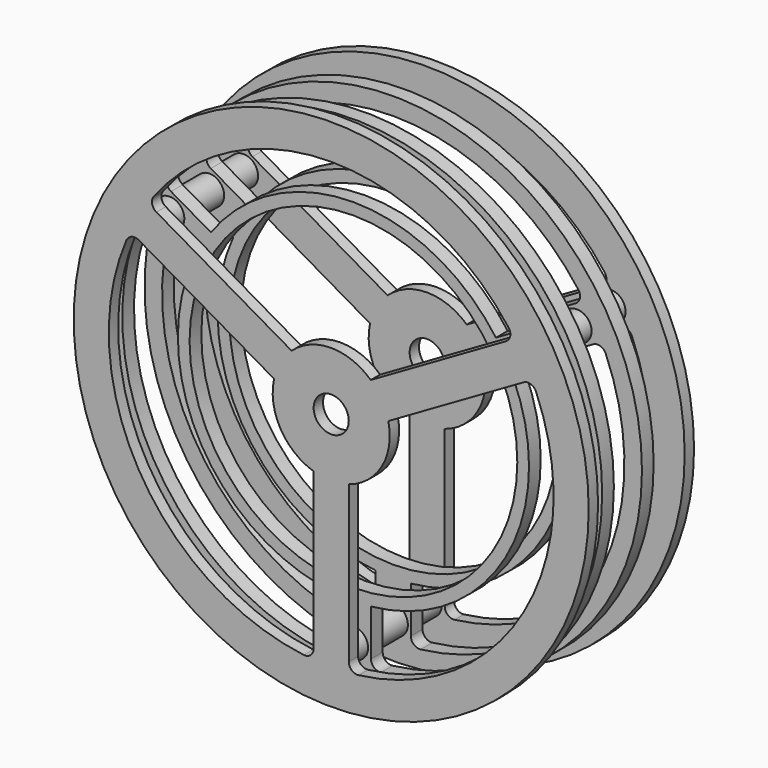
from build123d import *

# Parameters (mm, degrees)
SKETCH_R            = 88
SKETCH_R_2          = 6
PAD_DEPTH           = 4
SKETCH002_R         = 5
PAD001_DEPTH        = 18.5
POLARPATTERN_COUNT  = 3
SKETCH001_R         = 85
SKETCH001_R_2       = 56
PAD002_DEPTH        = 5
LINEARPATTERN_COUNT = 2
LINEARPATTERN_PITCH = 17


with BuildPart() as part:
    # Sketch → Pad (new body)
    with BuildSketch(Plane.XZ.offset(18.5)):
        Circle(SKETCH_R)
        Circle(SKETCH_R_2, mode=Mode.SUBTRACT)
        with BuildLine():
            ThreePointArc((9.369863, -75.420194), (65.817931, -38), (70.000735, 29.595558))
            ThreePointArc((70.000735, 29.595558), (68.191495, 31.271602), (65.737549, 31.025388))
            Line((19.522712, 4.34324), (65.737549, 31.025388))
            ThreePointArc((6, -19.078784), (17.320508, -10), (19.522712, 4.34324))
            Line((6, -19.078784), (6, -72.443081))
            ThreePointArc((6, -72.443081), (7.013746, -74.691368), (9.369863, -75.420194))
        make_face(mode=Mode.SUBTRACT)
        with BuildLine():
            Line((-6, -19.078784), (-6, -72.443081))
            ThreePointArc((-9.369863, -75.420194), (-7.013746, -74.691368), (-6, -72.443081))
            ThreePointArc((-70.000735, 29.595558), (-65.817931, -38), (-9.369863, -75.420194))
            ThreePointArc((-65.737549, 31.025388), (-68.191495, 31.271602), (-70.000735, 29.595558))
            Line((-65.737549, 31.025388), (-19.522712, 4.34324))
            ThreePointArc((-19.522712, 4.34324), (-17.320508, -10), (-6, -19.078784))
        make_face(mode=Mode.SUBTRACT)
        with BuildLine():
            Line((13.522712, 14.735544), (59.737549, 41.417693))
            ThreePointArc((59.737549, 41.417693), (61.177749, 43.419766), (60.630872, 45.824636))
            ThreePointArc((60.630872, 45.824636), (0, 76), (-60.630872, 45.824636))
            ThreePointArc((-60.630872, 45.824636), (-61.177749, 43.419766), (-59.737549, 41.417693))
            Line((-13.522712, 14.735544), (-59.737549, 41.417693))
            ThreePointArc((13.522712, 14.735544), (0, 20), (-13.522712, 14.735544))
        make_face(mode=Mode.SUBTRACT)
    pad = extrude(amount=PAD_DEPTH)

    # Sketch002 → Pad001 (join, symmetric)
    with BuildSketch(Plane.XZ):
        with Locations((0, -72.5)):
            Circle(SKETCH002_R)
    pad001 = extrude(amount=PAD001_DEPTH, both=True)

    # PolarPattern: Pad001 ×3 about axis
    polarpattern_axis = Axis((0, 0, 0), (0, -1, 0))
    for i in range(1, POLARPATTERN_COUNT):
        add(pad001.rotate(polarpattern_axis, i * 360 / POLARPATTERN_COUNT))

    # Sketch001 → Pad002 (join)
    with BuildSketch(Plane.XZ.offset(8)):
        Circle(SKETCH001_R)
        Circle(SKETCH001_R_2, mode=Mode.SUBTRACT)
        with BuildLine():
            ThreePointArc((9.355263, -78.444114), (68.416007, -39.5), (72.612227, 31.120162))
            ThreePointArc((72.612227, 31.120162), (70.801772, 32.785003), (68.354801, 32.536459))
            Line((54.701064, 24.653471), (68.354801, 32.536459))
            ThreePointArc((6, -59.699246), (51.961524, -30), (54.701064, 24.653471))
            Line((6, -59.699246), (6, -75.465224))
            ThreePointArc((6, -75.465224), (7.008241, -77.708635), (9.355263, -78.444114))
        make_face(mode=Mode.SUBTRACT)
        with BuildLine():
            Line((-6, -59.699246), (-6, -75.465224))
            ThreePointArc((-9.355263, -78.444114), (-7.008241, -77.708635), (-6, -75.465224))
            ThreePointArc((-72.612227, 31.120162), (-68.416007, -39.5), (-9.355263, -78.444114))
            ThreePointArc((-68.354801, 32.536459), (-70.801772, 32.785003), (-72.612227, 31.120162))
            Line((-68.354801, 32.536459), (-54.701064, 24.653471))
            ThreePointArc((-54.701064, 24.653471), (-51.961524, -30), (-6, -59.699246))
        make_face(mode=Mode.SUBTRACT)
        with BuildLine():
            Line((48.701064, 35.045776), (62.354801, 42.928764))
            ThreePointArc((62.354801, 42.928764), (63.793532, 44.923632), (63.256964, 47.323953))
            ThreePointArc((63.256964, 47.323953), (0, 79), (-63.256964, 47.323953))
            ThreePointArc((-63.256964, 47.323953), (-63.793532, 44.923632), (-62.354801, 42.928764))
            Line((-48.701064, 35.045776), (-62.354801, 42.928764))
            ThreePointArc((48.701064, 35.045776), (0, 60), (-48.701064, 35.045776))
        make_face(mode=Mode.SUBTRACT)
    pad002 = extrude(amount=PAD002_DEPTH)

    # LinearPattern: Pad002 ×2
    with Locations(*[(0, i * LINEARPATTERN_PITCH, 0) for i in range(1, LINEARPATTERN_COUNT)]):
        add(pad002)

    # Mirrored: Pad across XZ
    add(pad.mirror(Plane.XZ))


solid = part.part
